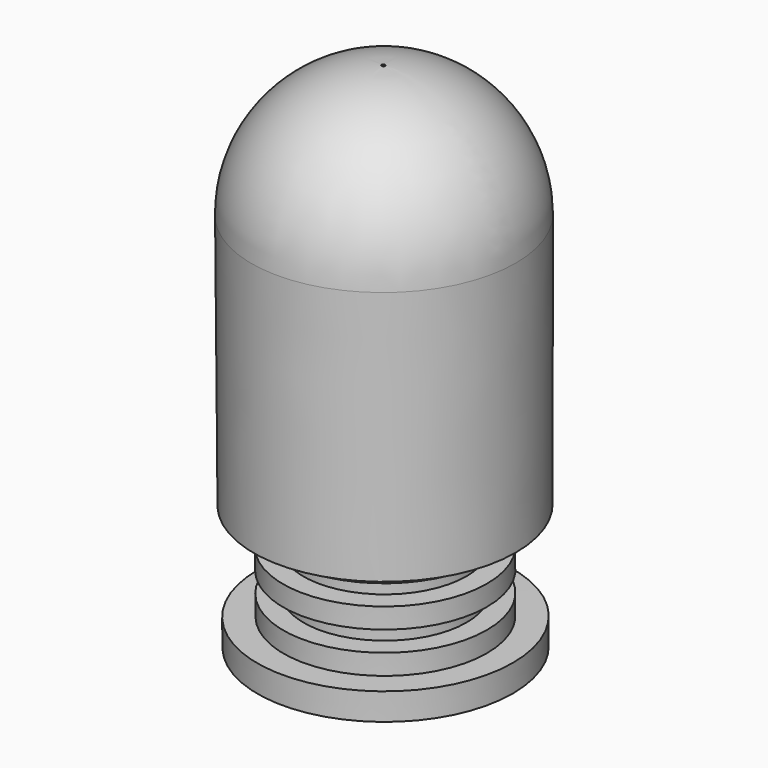
from build123d import *


with BuildPart() as f1:
    # F0 (on Front) → F1 (revolve)
    with BuildSketch(Plane.XZ):
        Polygon((20, 7.2432420968), (0, 7.2432420968), (0.1056819842, -17.2869430801), (25.1056819842, -17.2869430801), (25.1056819842, -12), (20, -12), (20, -8), (16, -8), (16, -4), (20, -4), (20, 0), (16, 0), (16, 4), (20, 4), align=None)
    revolve(axis=Axis((0.0528409921, 0, -5.0218504916), (-0.0043082024, 0, 0.9999907197)))


with BuildPart() as f1b:
    # F0 (on Front) → F1, piece 2 (revolve)
    with BuildSketch(Plane.XZ):
        with BuildLine():
            Line((21.428219974, 57.2400912642), (21.428219974, 7.2400912642))
            Line((21.428219974, 7.2400912642), (25.6850402802, 7.2400912642))
            Line((25.6850402802, 7.2400912642), (25.6850402802, 57.2400912642))
            ThreePointArc((25.6850402802, 57.2400912642), (18.1620661572, 75.4021574214), (0, 82.9251315445))
            Line((0, 82.9251315445), (0, 78.6683112383))
            ThreePointArc((0, 78.6683112383), (15.1520396524, 72.3921309166), (21.428219974, 57.2400912642))
        make_face()
    revolve(axis=Axis((0.0528409921, 0, -5.0218504916), (-0.0043082024, 0, 0.9999907197)))


solid = Compound([f1.part, f1b.part])
